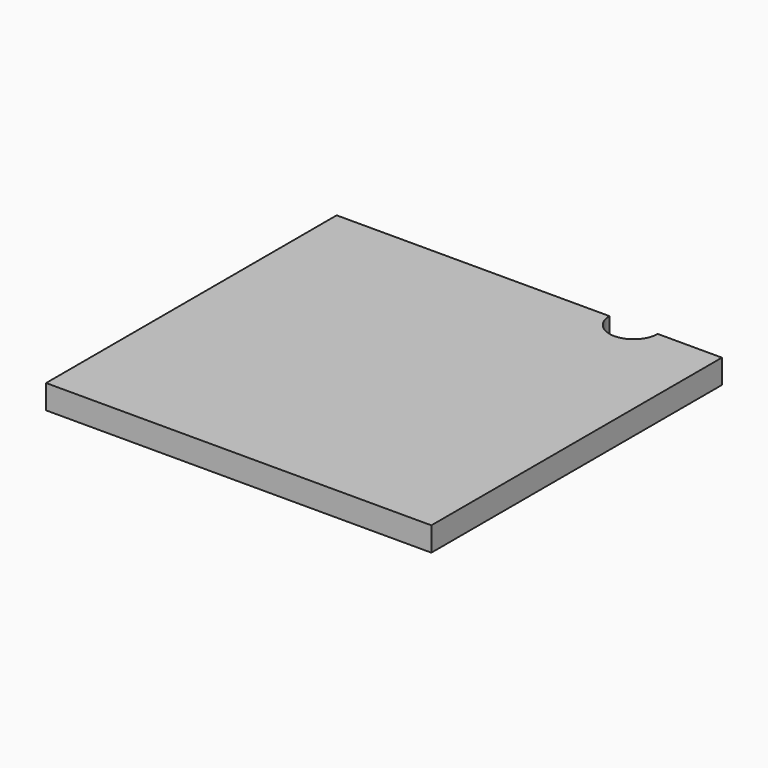
from build123d import *

# Parameters (mm, degrees)
F1_DEPTH = 38.1
F2_DEPTH = 38.1


with BuildPart() as f1:
    # F0 (on Top) → F1 (new body)
    with BuildSketch(Plane.XY):
        with BuildLine():
            Line((304.8, -287.3375), (304.8, 287.3375))
            Line((304.8, 287.3375), (203.2, 287.3375))
            ThreePointArc((203.2, 287.3375), (165.1, 249.2375), (127, 287.3375))
            Line((127, 287.3375), (-304.8, 287.3375))
            Line((-304.8, 287.3375), (-304.8, -287.3375))
            Line((-304.8, -287.3375), (304.8, -287.3375))
        make_face()
        with BuildLine():
            ThreePointArc((127, 287.3375), (165.1, 249.2375), (203.2, 287.3375))
            Line((203.2, 287.3375), (127, 287.3375))
        make_face()
    extrude(amount=F1_DEPTH)

    # F0 (on Top) → F2 (cut)
    with BuildSketch(Plane.XY):
        with BuildLine():
            ThreePointArc((127, 287.3375), (165.1, 249.2375), (203.2, 287.3375))
            Line((203.2, 287.3375), (127, 287.3375))
        make_face()
    extrude(amount=F2_DEPTH, mode=Mode.SUBTRACT)


solid = f1.part
